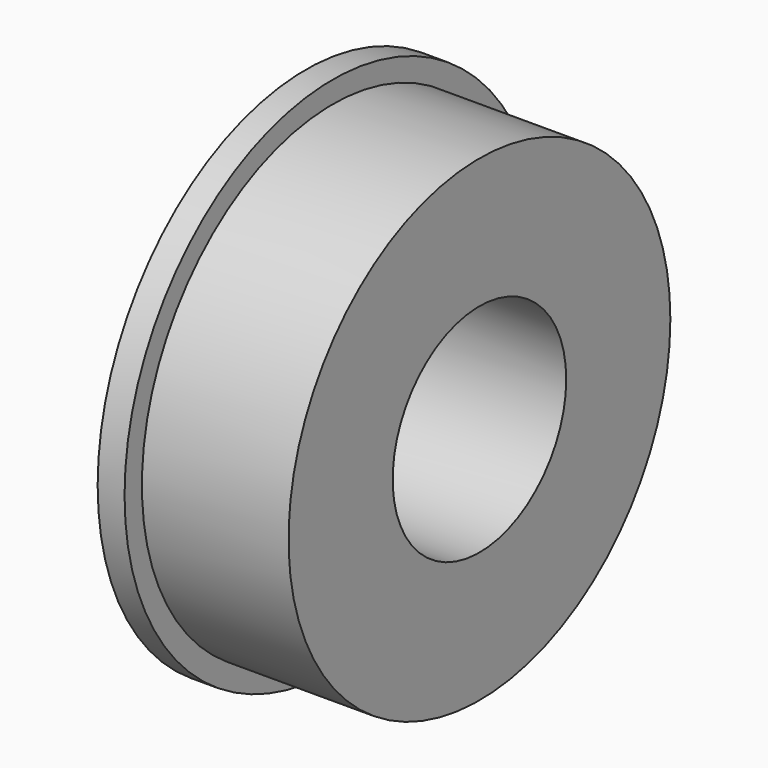
from build123d import *

# Parameters (mm, degrees)
F0_R     = 69.85
F0_R_2   = 31.75
F1_DEPTH = 42.926
F2_R     = 76.2
F2_R_2   = 31.75
F3_DEPTH = 7.874


with BuildPart() as f1:
    # F0 (on Right) → F1 (new body)
    with BuildSketch(Plane.YZ):
        Circle(F0_R)
        Circle(F0_R_2, mode=Mode.SUBTRACT)
    extrude(amount=F1_DEPTH)

    # F2 (on face) → F3 (join)
    with BuildSketch(Plane(origin=(0, 0, 0), x_dir=(0, -1, 0), z_dir=(-1, 0, 0))):
        Circle(F2_R)
        Circle(F2_R_2, mode=Mode.SUBTRACT)
    extrude(amount=F3_DEPTH)


solid = f1.part
